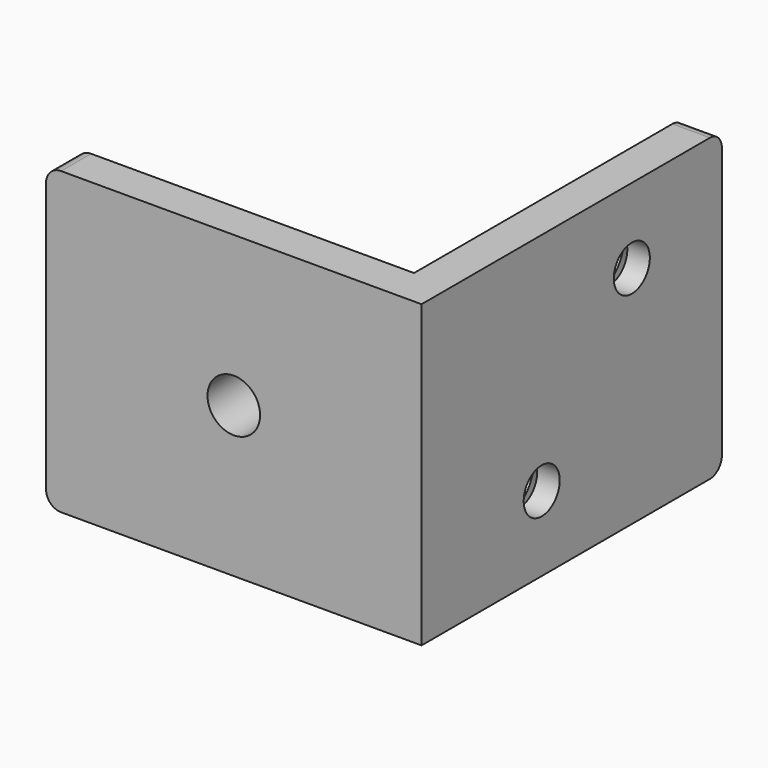
from build123d import *

# Parameters (mm, degrees)
PAD_DEPTH       = 40
SKETCH002_R     = 6.5
PAD001_DEPTH    = 3.25
SKETCH003_R     = 3.5
POCKET_DEPTH    = 8.251
SKETCH004_R     = 3
POCKET001_DEPTH = 5
CHAMFER_SIZE    = 2
FILLET_R        = 2
FILLET001_R     = 2
CHAMFER001_SIZE = 1


with BuildPart() as part:
    # Sketch → Pad (new body)
    with BuildSketch(Plane.XY):
        Polygon((0, 50), (0, 0), (-50, 0), (-50, 5), (-5, 5), (-5, 50), align=None)
    extrude(amount=PAD_DEPTH)

    # Sketch002 (on Face4 of Pad) → Pad001 (join)
    with BuildSketch(Plane(origin=(0, 5, 0), x_dir=(-1, 0, 0), z_dir=(0, 1, 0))):
        with Locations((25, 20)):
            Circle(SKETCH002_R)
    extrude(amount=PAD001_DEPTH)

    # Sketch003 (on Face10 of Pad001) → Pocket (cut, through all)
    with BuildSketch(Plane(origin=(0, 8.25, 0), x_dir=(-1, 0, 0), z_dir=(0, 1, 0))):
        with Locations((25, 20)):
            Circle(SKETCH003_R)
    extrude(amount=-POCKET_DEPTH, mode=Mode.SUBTRACT)

    # Sketch004 (on Face6 of Pocket) → Pocket001 (cut)
    with BuildSketch(Plane(origin=(-5, 0, 0), x_dir=(0, -1, 0), z_dir=(-1, 0, 0))):
        with Locations((-35, 30)):
            Circle(SKETCH004_R)
        with Locations((-20, 10)):
            Circle(SKETCH004_R)
    extrude(amount=-POCKET001_DEPTH, mode=Mode.SUBTRACT)

    # Chamfer
    chamfer_edges = [part.edges().sort_by_distance(p)[0] for p in [
        (-5, 23, 10),
        (-5, 38, 30),
    ]]
    chamfer(chamfer_edges, length=CHAMFER_SIZE)

    # Fillet
    fillet_edges = [part.edges().sort_by_distance(p)[0] for p in [
        (-50, 2.5, 40),
        (-50, 2.5, 0),
    ]]
    fillet(fillet_edges, radius=FILLET_R)

    # Fillet001
    fillet001_edges = [part.edges().sort_by_distance(p)[0] for p in [
        (-2.5, 50, 40),
        (-2.5, 50, 0),
    ]]
    fillet(fillet001_edges, radius=FILLET001_R)

    # Chamfer001
    chamfer001_edges = [part.edges().sort_by_distance(p)[0] for p in [
        (-18.5, 8.25, 20),
    ]]
    chamfer(chamfer001_edges, length=CHAMFER001_SIZE)


solid = part.part
